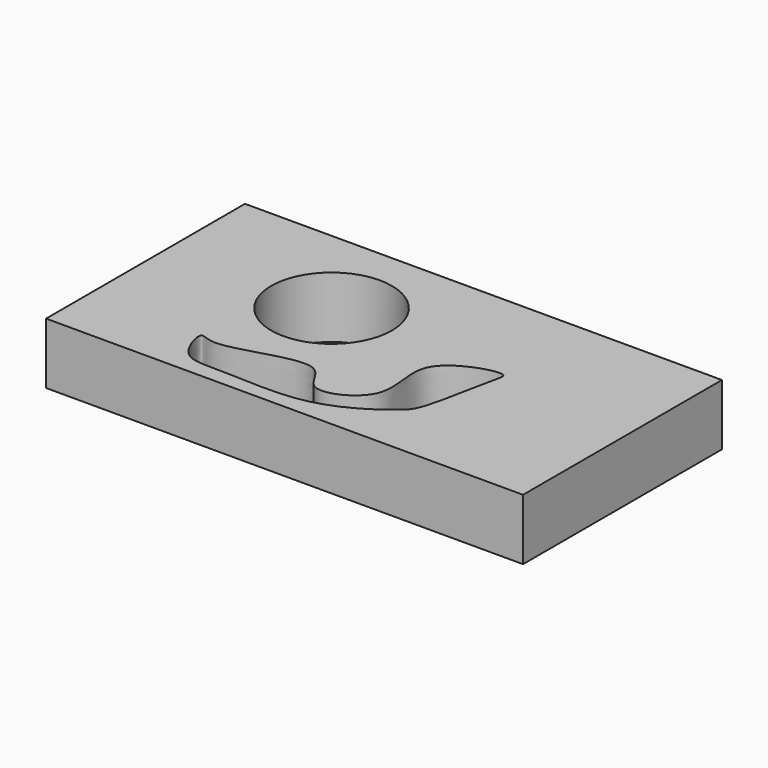
from build123d import *

# Parameters (mm, degrees)
F0_W     = 78.0463647097
F0_H     = 40.6835842878
F0_R     = 9.883553285
F1_DEPTH = 10


with BuildPart() as f1:
    # F0 (on Top) → F1 (new body)
    with BuildSketch(Plane.XY):
        with Locations((-18.5109684244, -39.5722566172)):
            Rectangle(F0_W, F0_H)
        with BuildLine():
            add(Edge.make_bspline(
                [(-39.1804501414, -51.2268729508), (-38.9500086589, -50.8221646198), (-36.2273500626, -53.2988304369), (-21.0191665348, -45.7057069125), (-20.1034375853, -55.7024396351), (-8.2757466105, -50.1919752734), (-14.7176866137, -38.5657152473), (-1.2397997116, -34.2918120461), (-2.5372772848, -37.936042764), (-4.2770540861, -49.0541497556), (-6.2715978196, -51.3782192343), (-11.7207156255, -55.2754841231), (-18.9148708475, -57.7610526047), (-27.8985503607, -57.3438005339), (-32.7317613507, -57.193923357), (-37.9020154204, -57.2868227829), (-39.5027488027, -51.7929036492), (-39.1804501414, -51.2268729508)],
                knots=[0, 0, 0, 0, 0.0419518581, 0.1405136544, 0.2022970296, 0.2763784481, 0.3588887629, 0.4387831003, 0.4761342478, 0.5641658679, 0.6110315778, 0.6758372192, 0.7492817941, 0.8267757386, 0.8850429254, 0.941325548, 1, 1, 1, 1], degree=3))
        make_face(mode=Mode.SUBTRACT)
        with Locations((-30.8489408344, -34.8790101707)):
            Circle(F0_R, mode=Mode.SUBTRACT)
    extrude(amount=F1_DEPTH)


solid = f1.part
